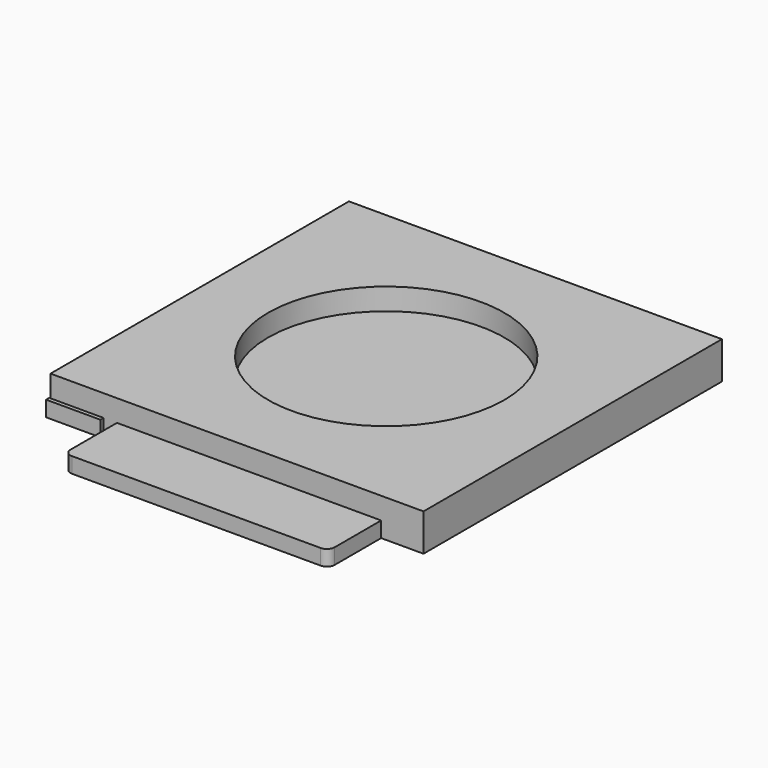
from build123d import *

# Parameters (mm, degrees)
F0_W     = 152.4
F0_H     = 152.4
F0_R     = 48.26
F3_DEPTH = 15.24
F4_DEPTH = 6.35
F5_DEPTH = 6.35


with BuildPart() as f3:
    # F0 (on Top) → F3 (new body)
    with BuildSketch(Plane.XY):
        Rectangle(F0_W, F0_H)
        Circle(F0_R, mode=Mode.SUBTRACT)
    extrude(amount=F3_DEPTH)


with BuildPart() as f4:
    # F1 (on Top) → F4 (new body)
    with BuildSketch(Plane.XY):
        with BuildLine():
            Line((-30.851894, 74.695191), (-49.055474, 74.695191))
            Line((-49.055474, 74.695191), (-55.405474, 74.695191))
            Line((-55.405474, 74.695191), (-55.405474, 61.995191))
            Line((-55.405474, 61.995191), (-49.055474, 61.995191))
            Line((-49.055474, 61.995191), (-49.055474, -99.929809))
            ThreePointArc((-49.055474, -99.929809), (-48.125538, -102.174873), (-45.880474, -103.104809))
            Line((-45.880474, -103.104809), (55.719526, -103.104809))
            ThreePointArc((55.719526, -103.104809), (57.96459, -102.174873), (58.894526, -99.929809))
            Line((58.894526, -99.929809), (58.894526, 61.995191))
            Line((58.894526, 61.995191), (65.244526, 61.995191))
            Line((65.244526, 61.995191), (65.244526, 74.695191))
            Line((65.244526, 74.695191), (58.894526, 74.695191))
            Line((58.894526, 74.695191), (40.690947, 74.695191))
            ThreePointArc((40.690947, 74.695191), (4.919526, 58.830145), (-30.851894, 74.695191))
        make_face()
    extrude(amount=F4_DEPTH)


with BuildPart() as f5:
    # F2 (on Top) → F5 (new body)
    with BuildSketch(Plane.XY):
        Polygon((-60.842362, 74.588478), (-76.717362, 74.588478), (-76.717362, -77.811522), (-60.842362, -77.811522), (-54.492362, -77.811522), (-54.492362, -65.111522), (-60.842362, -65.111522), align=None)
    extrude(amount=F5_DEPTH)


solid = Compound([f3.part, f4.part, f5.part])
